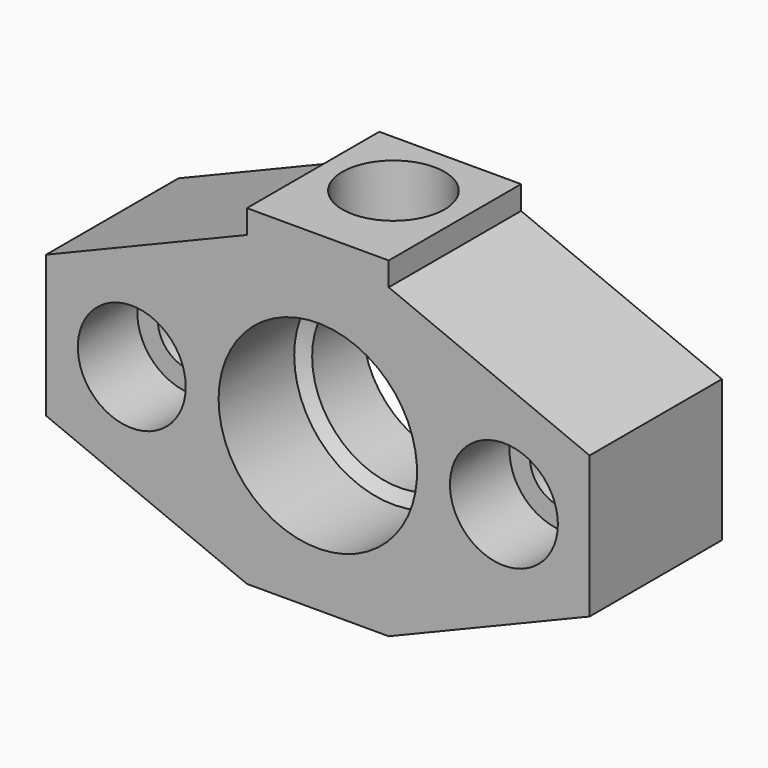
from build123d import *

# Parameters (mm, degrees)
F1_DEPTH        = 22.225
F3_D            = 23.415625
F4_D            = 26.67
F4_DEPTH        = 12.7
F4_TIP          = 8.0124763547
F5_W            = 19.05
F5_H            = 22.225
F6_DEPTH        = 3.175
F8_D            = 11.1125
F8_DEPTH        = 25.4
F8_TIP          = 3.3385318145
F9_D            = 13.716
F9_DEPTH        = 9.525
F9_TIP          = 4.1207021253
F11_D           = 9
F11_CBORE_D     = 14.5
F11_CBORE_DEPTH = 10


with BuildPart() as f1:
    # F0 (on Front) → F1 (new body)
    with BuildSketch(Plane.XZ):
        Polygon((-9.525, 20.6375), (-36.5125, 9.525), (-36.5125, -9.525), (-9.525, -20.6375), (9.525, -20.6375), (36.5125, -9.525), (36.5125, 9.525), (9.525, 20.6375), align=None)
    extrude(amount=-F1_DEPTH)

    # F3 (through all)
    with Locations(Plane.XZ):
        with Locations((0, 0)):
            Hole(F3_D / 2)

    # F4
    with Locations(Plane.XZ):
        with Locations((0, 0)):
            Hole(F4_D / 2, depth=F4_DEPTH)
            with Locations((0, 0, -(F4_DEPTH + F4_TIP / 2))):  # 118° drill point
                Cone(0, F4_D / 2, F4_TIP, mode=Mode.SUBTRACT)

    # F5 (on face) → F6 (join)
    with BuildSketch(Plane.XY.offset(20.6375)):
        with Locations((0, 11.1125)):
            Rectangle(F5_W, F5_H)
    extrude(amount=F6_DEPTH)

    # F8
    with Locations(Plane.XY.offset(23.8125)):
        with Locations((0, 12.7)):
            Hole(F8_D / 2, depth=F8_DEPTH)
            with Locations((0, 0, -(F8_DEPTH + F8_TIP / 2))):  # 118° drill point
                Cone(0, F8_D / 2, F8_TIP, mode=Mode.SUBTRACT)

    # F9
    with Locations(Plane.XY.offset(23.8125)):
        with Locations((0, 12.7)):
            Hole(F9_D / 2, depth=F9_DEPTH)
            with Locations((0, 0, -(F9_DEPTH + F9_TIP / 2))):  # 118° drill point
                Cone(0, F9_D / 2, F9_TIP, mode=Mode.SUBTRACT)

    # F11 (through all)
    with Locations(Plane.XZ):
        with Locations((-25, 0), (25, 0)):
            CounterBoreHole(F11_D / 2, F11_CBORE_D / 2, F11_CBORE_DEPTH)


solid = f1.part
